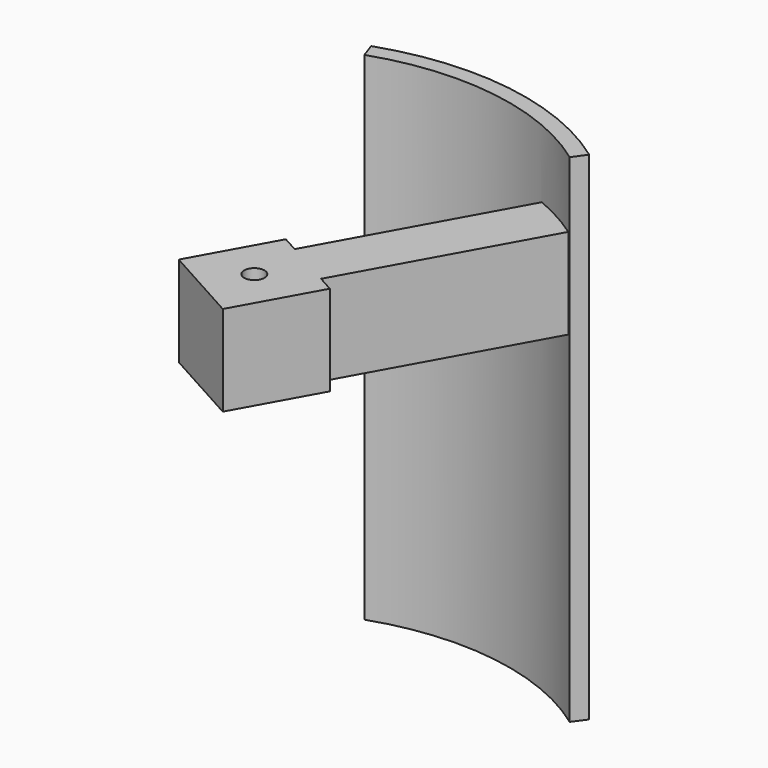
from build123d import *

# Parameters (mm, degrees)
PAD154_DEPTH              = 22
SKETCH228_W               = 4
SKETCH228_H               = 4
PAD153_DEPTH              = 13.5
SKETCH225_R               = 0.45
SKETCH225_W               = 0.8
SKETCH225_H               = 9.5
POCKET021_DEPTH           = 5
BODY025_PLACEMENT_ANGLE   = 90
FUSION002_PLACEMENT_ANGLE = 29


with BuildPart() as segment_wing002:
    # Sketch202 → Pad154 (new body)
    with BuildSketch(Plane.XY):
        with BuildLine():
            ThreePointArc((1.377124, 11.215772), (-3.957343, 10.584396), (-8.397537, 7.561176))
            Line((-8.397537, 7.561176), (-8.917738, 8.029567))
            ThreePointArc((1.462432, 11.910554), (-4.202489, 11.240066), (-8.917738, 8.029567))
            Line((1.377124, 11.215772), (1.462432, 11.910554))
        make_face()
    extrude(amount=PAD154_DEPTH)


with BuildPart() as segment_wing002_1:
    # Body028 placement: moved
    add(segment_wing002.part.moved(Location((0, 0, -9))))


with BuildPart() as segment_on002:
    # Sketch228 → Pad153 (new body)
    with BuildSketch(Plane.XY):
        with Locations((0, 6)):
            Rectangle(SKETCH228_W, SKETCH228_H)
    extrude(amount=PAD153_DEPTH)

    # Sketch225 (on Face1 of Pad153) → Pocket021 (cut)
    with BuildSketch(Plane(origin=(0, 8, 0), x_dir=(-1, 0, 0), z_dir=(0, 1, 0))):
        with Locations((0, 11.5)):
            Circle(SKETCH225_R)
        with Locations((-1.6, 4.75)):
            Rectangle(SKETCH225_W, SKETCH225_H)
        with Locations((1.6, 4.75)):
            Rectangle(SKETCH225_W, SKETCH225_H)
    extrude(amount=-POCKET021_DEPTH, mode=Mode.SUBTRACT)


with BuildPart() as segment_on002_1:
    # Body025 placement: moved
    add(segment_on002.part.moved(Location((0, 11.5, 2))).rotate(Axis((0, 11.5, 2), (1, 0, 0)), BODY025_PLACEMENT_ANGLE))

    # Fusion002: union Segment_Wing002
    add(segment_wing002_1.part)


with BuildPart() as segment_on002_2:
    # Fusion002 placement: moved
    add(segment_on002_1.part.rotate(Axis((0, 0, 0), (0, 0, -1)), FUSION002_PLACEMENT_ANGLE))


solid = segment_on002_2.part
